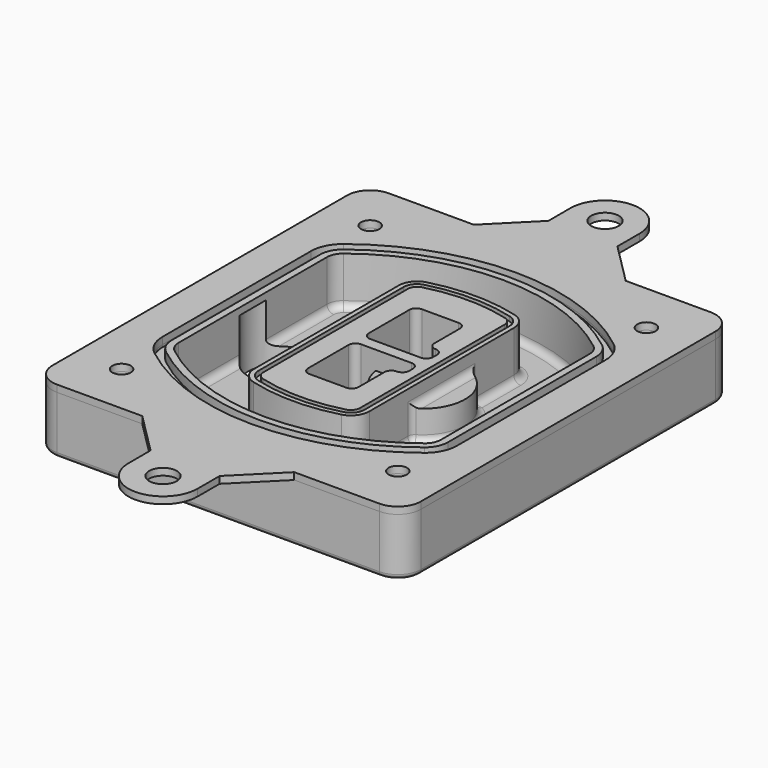
from build123d import *

# Parameters (mm, degrees)
F0_R      = 4
F1_DEPTH  = 25
F2_DEPTH  = 3
F3_DEPTH  = 1
F4_DEPTH  = 18
F6_DEPTH  = 21
F7_DEPTH  = 2
F9_DEPTH  = 20
F10_DEPTH = 16
F11_DEPTH = 25
F8_R      = 6
F8_R_2    = 4
F12_DEPTH = 6
F14_DEPTH = 9
F15_R     = 3
F16_R     = 2
F17_R     = 6
F17_R_2   = 4
F18_DEPTH = 3


with BuildPart() as f1:
    # F0 (on Top) → F1 (new body)
    with BuildSketch(Plane.XY):
        with BuildLine():
            ThreePointArc((-80, -80), (-77.0710678119, -87.0710678119), (-70, -90))
            Line((-70, -90), (70, -90))
            ThreePointArc((70, -90), (77.0710678119, -87.0710678119), (80, -80))
            Line((80, -80), (80, 80))
            ThreePointArc((80, 80), (77.0710678119, 87.0710678119), (70, 90))
            Line((70, 90), (-70, 90))
            ThreePointArc((-70, 90), (-77.0710678119, 87.0710678119), (-80, 80))
            Line((-80, 80), (-80, -80))
        make_face()
        with Locations((-60, -67.5)):
            Circle(F0_R, mode=Mode.SUBTRACT)
        with Locations((60, -67.5)):
            Circle(F0_R, mode=Mode.SUBTRACT)
        with Locations((-60, 67.5)):
            Circle(F0_R, mode=Mode.SUBTRACT)
        with BuildLine():
            ThreePointArc((-64, 40.2934422872), (-62.5820384798, 46.4328484224), (-58.6153846154, 51.3286200352))
            ThreePointArc((-58.6153846154, 51.3286200352), (0, 71.5), (58.6153846154, 51.3286200352))
            ThreePointArc((58.6153846154, 51.3286200352), (62.5820384798, 46.4328484224), (64, 40.2934422872))
            Line((64, 40.2934422872), (64, -40.2934422872))
            ThreePointArc((64, -40.2934422872), (62.5820384798, -46.4328484224), (58.6153846154, -51.3286200352))
            ThreePointArc((58.6153846154, -51.3286200352), (0, -71.5), (-58.6153846154, -51.3286200352))
            ThreePointArc((-58.6153846154, -51.3286200352), (-62.5820384798, -46.4328484224), (-64, -40.2934422872))
            Line((-64, -40.2934422872), (-64, 40.2934422872))
        make_face(mode=Mode.SUBTRACT)
        with Locations((60, 67.5)):
            Circle(F0_R, mode=Mode.SUBTRACT)
        with BuildLine():
            ThreePointArc((58.6153846154, 51.3286200352), (0, 71.5), (-58.6153846154, 51.3286200352))
            ThreePointArc((-58.6153846154, 51.3286200352), (-62.5820384798, 46.4328484224), (-64, 40.2934422872))
            Line((-64, 40.2934422872), (-64, -40.2934422872))
            ThreePointArc((-64, -40.2934422872), (-62.5820384798, -46.4328484224), (-58.6153846154, -51.3286200352))
            ThreePointArc((-58.6153846154, -51.3286200352), (0, -71.5), (58.6153846154, -51.3286200352))
            ThreePointArc((58.6153846154, -51.3286200352), (62.5820384798, -46.4328484224), (64, -40.2934422872))
            Line((64, -40.2934422872), (64, 40.2934422872))
            ThreePointArc((64, 40.2934422872), (62.5820384798, 46.4328484224), (58.6153846154, 51.3286200352))
        make_face()
        with BuildLine():
            Line((-60, -40.2934422872), (-60, 40.2934422872))
            ThreePointArc((-60, 40.2934422872), (-58.9871703427, 44.6787323838), (-56.1538461538, 48.1757121072))
            ThreePointArc((-56.1538461538, 48.1757121072), (0, 67.5), (56.1538461538, 48.1757121072))
            ThreePointArc((56.1538461538, 48.1757121072), (58.9871703427, 44.6787323838), (60, 40.2934422872))
            Line((60, 40.2934422872), (60, -40.2934422872))
            ThreePointArc((60, -40.2934422872), (58.9871703427, -44.6787323838), (56.1538461538, -48.1757121072))
            ThreePointArc((56.1538461538, -48.1757121072), (0, -67.5), (-56.1538461538, -48.1757121072))
            ThreePointArc((-56.1538461538, -48.1757121072), (-58.9871703427, -44.6787323838), (-60, -40.2934422872))
        make_face(mode=Mode.SUBTRACT)
        with BuildLine():
            ThreePointArc((-56.1538461538, 48.1757121072), (-58.9871703427, 44.6787323838), (-60, 40.2934422872))
            Line((-60, 40.2934422872), (-60, -40.2934422872))
            ThreePointArc((-60, -40.2934422872), (-58.9871703427, -44.6787323838), (-56.1538461538, -48.1757121072))
            ThreePointArc((-56.1538461538, -48.1757121072), (0, -67.5), (56.1538461538, -48.1757121072))
            ThreePointArc((56.1538461538, -48.1757121072), (58.9871703427, -44.6787323838), (60, -40.2934422872))
            Line((60, -40.2934422872), (60, 40.2934422872))
            ThreePointArc((60, 40.2934422872), (58.9871703427, 44.6787323838), (56.1538461538, 48.1757121072))
            ThreePointArc((56.1538461538, 48.1757121072), (0, 67.5), (-56.1538461538, 48.1757121072))
        make_face()
        with BuildLine():
            ThreePointArc((54.3076923077, 45.8110311612), (56.2910192399, 43.3631453548), (57, 40.2934422872))
            Line((57, 40.2934422872), (57, -40.2934422872))
            ThreePointArc((57, -40.2934422872), (56.2910192399, -43.3631453548), (54.3076923077, -45.8110311612))
            ThreePointArc((54.3076923077, -45.8110311612), (0, -64.5), (-54.3076923077, -45.8110311612))
            ThreePointArc((-54.3076923077, -45.8110311612), (-56.2910192399, -43.3631453548), (-57, -40.2934422872))
            Line((-57, -40.2934422872), (-57, 40.2934422872))
            ThreePointArc((-57, 40.2934422872), (-56.2910192399, 43.3631453548), (-54.3076923077, 45.8110311612))
            ThreePointArc((-54.3076923077, 45.8110311612), (0, 64.5), (54.3076923077, 45.8110311612))
        make_face(mode=Mode.SUBTRACT)
        with BuildLine():
            Line((57, -40.2934422872), (57, 40.2934422872))
            ThreePointArc((57, 40.2934422872), (56.2910192399, 43.3631453548), (54.3076923077, 45.8110311612))
            ThreePointArc((54.3076923077, 45.8110311612), (0, 64.5), (-54.3076923077, 45.8110311612))
            ThreePointArc((-54.3076923077, 45.8110311612), (-56.2910192399, 43.3631453548), (-57, 40.2934422872))
            Line((-57, 40.2934422872), (-57, -40.2934422872))
            ThreePointArc((-57, -40.2934422872), (-56.2910192399, -43.3631453548), (-54.3076923077, -45.8110311612))
            ThreePointArc((-54.3076923077, -45.8110311612), (0, -64.5), (54.3076923077, -45.8110311612))
            ThreePointArc((54.3076923077, -45.8110311612), (56.2910192399, -43.3631453548), (57, -40.2934422872))
        make_face()
    extrude(amount=-F1_DEPTH)

    # F0 (on Top) → F2 (join)
    with BuildSketch(Plane.XY):
        with BuildLine():
            ThreePointArc((-56.1538461538, 48.1757121072), (-58.9871703427, 44.6787323838), (-60, 40.2934422872))
            Line((-60, 40.2934422872), (-60, -40.2934422872))
            ThreePointArc((-60, -40.2934422872), (-58.9871703427, -44.6787323838), (-56.1538461538, -48.1757121072))
            ThreePointArc((-56.1538461538, -48.1757121072), (0, -67.5), (56.1538461538, -48.1757121072))
            ThreePointArc((56.1538461538, -48.1757121072), (58.9871703427, -44.6787323838), (60, -40.2934422872))
            Line((60, -40.2934422872), (60, 40.2934422872))
            ThreePointArc((60, 40.2934422872), (58.9871703427, 44.6787323838), (56.1538461538, 48.1757121072))
            ThreePointArc((56.1538461538, 48.1757121072), (0, 67.5), (-56.1538461538, 48.1757121072))
        make_face()
        with BuildLine():
            ThreePointArc((54.3076923077, 45.8110311612), (56.2910192399, 43.3631453548), (57, 40.2934422872))
            Line((57, 40.2934422872), (57, -40.2934422872))
            ThreePointArc((57, -40.2934422872), (56.2910192399, -43.3631453548), (54.3076923077, -45.8110311612))
            ThreePointArc((54.3076923077, -45.8110311612), (0, -64.5), (-54.3076923077, -45.8110311612))
            ThreePointArc((-54.3076923077, -45.8110311612), (-56.2910192399, -43.3631453548), (-57, -40.2934422872))
            Line((-57, -40.2934422872), (-57, 40.2934422872))
            ThreePointArc((-57, 40.2934422872), (-56.2910192399, 43.3631453548), (-54.3076923077, 45.8110311612))
            ThreePointArc((-54.3076923077, 45.8110311612), (0, 64.5), (54.3076923077, 45.8110311612))
        make_face(mode=Mode.SUBTRACT)
    extrude(amount=F2_DEPTH)

    # F0 (on Top) → F3 (cut)
    with BuildSketch(Plane.XY):
        with BuildLine():
            ThreePointArc((58.6153846154, 51.3286200352), (0, 71.5), (-58.6153846154, 51.3286200352))
            ThreePointArc((-58.6153846154, 51.3286200352), (-62.5820384798, 46.4328484224), (-64, 40.2934422872))
            Line((-64, 40.2934422872), (-64, -40.2934422872))
            ThreePointArc((-64, -40.2934422872), (-62.5820384798, -46.4328484224), (-58.6153846154, -51.3286200352))
            ThreePointArc((-58.6153846154, -51.3286200352), (0, -71.5), (58.6153846154, -51.3286200352))
            ThreePointArc((58.6153846154, -51.3286200352), (62.5820384798, -46.4328484224), (64, -40.2934422872))
            Line((64, -40.2934422872), (64, 40.2934422872))
            ThreePointArc((64, 40.2934422872), (62.5820384798, 46.4328484224), (58.6153846154, 51.3286200352))
        make_face()
        with BuildLine():
            Line((-60, -40.2934422872), (-60, 40.2934422872))
            ThreePointArc((-60, 40.2934422872), (-58.9871703427, 44.6787323838), (-56.1538461538, 48.1757121072))
            ThreePointArc((-56.1538461538, 48.1757121072), (0, 67.5), (56.1538461538, 48.1757121072))
            ThreePointArc((56.1538461538, 48.1757121072), (58.9871703427, 44.6787323838), (60, 40.2934422872))
            Line((60, 40.2934422872), (60, -40.2934422872))
            ThreePointArc((60, -40.2934422872), (58.9871703427, -44.6787323838), (56.1538461538, -48.1757121072))
            ThreePointArc((56.1538461538, -48.1757121072), (0, -67.5), (-56.1538461538, -48.1757121072))
            ThreePointArc((-56.1538461538, -48.1757121072), (-58.9871703427, -44.6787323838), (-60, -40.2934422872))
        make_face(mode=Mode.SUBTRACT)
    extrude(amount=-F3_DEPTH, mode=Mode.SUBTRACT)

    # F0 (on Top) → F4 (cut)
    with BuildSketch(Plane.XY):
        with BuildLine():
            Line((57, -40.2934422872), (57, 40.2934422872))
            ThreePointArc((57, 40.2934422872), (56.2910192399, 43.3631453548), (54.3076923077, 45.8110311612))
            ThreePointArc((54.3076923077, 45.8110311612), (0, 64.5), (-54.3076923077, 45.8110311612))
            ThreePointArc((-54.3076923077, 45.8110311612), (-56.2910192399, 43.3631453548), (-57, 40.2934422872))
            Line((-57, 40.2934422872), (-57, -40.2934422872))
            ThreePointArc((-57, -40.2934422872), (-56.2910192399, -43.3631453548), (-54.3076923077, -45.8110311612))
            ThreePointArc((-54.3076923077, -45.8110311612), (0, -64.5), (54.3076923077, -45.8110311612))
            ThreePointArc((54.3076923077, -45.8110311612), (56.2910192399, -43.3631453548), (57, -40.2934422872))
        make_face()
    extrude(amount=-F4_DEPTH, mode=Mode.SUBTRACT)

    # F5 (on face) → F6 (join, through all)
    with BuildSketch(Plane.XY.offset(3)):
        with BuildLine():
            ThreePointArc((-25, -39.2465276821), (-23.3511545998, -44.1109737193), (-19.0842911877, -46.9702398883))
            ThreePointArc((-19.0842911877, -46.9702398883), (0, -49.5), (19.0842911877, -46.9702398883))
            ThreePointArc((19.0842911877, -46.9702398883), (23.3511545998, -44.1109737193), (25, -39.2465276821))
            Line((25, -39.2465276821), (25, 39.2465276821))
            ThreePointArc((25, 39.2465276821), (23.3511545998, 44.1109737193), (19.0842911877, 46.9702398883))
            ThreePointArc((19.0842911877, 46.9702398883), (0, 49.5), (-19.0842911877, 46.9702398883))
            ThreePointArc((-19.0842911877, 46.9702398883), (-23.3511545998, 44.1109737193), (-25, 39.2465276821))
            Line((-25, 39.2465276821), (-25, -39.2465276821))
        make_face()
        with BuildLine():
            ThreePointArc((18.5632183908, 45.0393118368), (21.7633659499, 42.89486221), (23, 39.2465276821))
            Line((23, 39.2465276821), (23, -39.2465276821))
            ThreePointArc((23, -39.2465276821), (21.7633659499, -42.89486221), (18.5632183908, -45.0393118368))
            ThreePointArc((18.5632183908, -45.0393118368), (0, -47.5), (-18.5632183908, -45.0393118368))
            ThreePointArc((-18.5632183908, -45.0393118368), (-21.7633659499, -42.89486221), (-23, -39.2465276821))
            Line((-23, -39.2465276821), (-23, 39.2465276821))
            ThreePointArc((-23, 39.2465276821), (-21.7633659499, 42.89486221), (-18.5632183908, 45.0393118368))
            ThreePointArc((-18.5632183908, 45.0393118368), (0, 47.5), (18.5632183908, 45.0393118368))
        make_face(mode=Mode.SUBTRACT)
        with BuildLine():
            Line((23, -39.2465276821), (23, 39.2465276821))
            ThreePointArc((23, 39.2465276821), (21.7633659499, 42.89486221), (18.5632183908, 45.0393118368))
            ThreePointArc((18.5632183908, 45.0393118368), (0, 47.5), (-18.5632183908, 45.0393118368))
            ThreePointArc((-18.5632183908, 45.0393118368), (-21.7633659499, 42.89486221), (-23, 39.2465276821))
            Line((-23, 39.2465276821), (-23, -39.2465276821))
            ThreePointArc((-23, -39.2465276821), (-21.7633659499, -42.89486221), (-18.5632183908, -45.0393118368))
            ThreePointArc((-18.5632183908, -45.0393118368), (0, -47.5), (18.5632183908, -45.0393118368))
            ThreePointArc((18.5632183908, -45.0393118368), (21.7633659499, -42.89486221), (23, -39.2465276821))
        make_face()
        with BuildLine():
            ThreePointArc((18.0421455939, 43.1083837852), (20.1755772999, 41.6787507007), (21, 39.2465276821))
            Line((21, 39.2465276821), (21, -39.2465276821))
            ThreePointArc((21, -39.2465276821), (20.1755772999, -41.6787507007), (18.0421455939, -43.1083837852))
            ThreePointArc((18.0421455939, -43.1083837852), (0, -45.5), (-18.0421455939, -43.1083837852))
            ThreePointArc((-18.0421455939, -43.1083837852), (-20.1755772999, -41.6787507007), (-21, -39.2465276821))
            Line((-21, -39.2465276821), (-21, 39.2465276821))
            ThreePointArc((-21, 39.2465276821), (-20.1755772999, 41.6787507007), (-18.0421455939, 43.1083837852))
            ThreePointArc((-18.0421455939, 43.1083837852), (0, 45.5), (18.0421455939, 43.1083837852))
        make_face(mode=Mode.SUBTRACT)
        with BuildLine():
            Line((21, -39.2465276821), (21, 39.2465276821))
            ThreePointArc((21, 39.2465276821), (20.1755772999, 41.6787507007), (18.0421455939, 43.1083837852))
            ThreePointArc((18.0421455939, 43.1083837852), (0, 45.5), (-18.0421455939, 43.1083837852))
            ThreePointArc((-18.0421455939, 43.1083837852), (-20.1755772999, 41.6787507007), (-21, 39.2465276821))
            Line((-21, 39.2465276821), (-21, -39.2465276821))
            ThreePointArc((-21, -39.2465276821), (-20.1755772999, -41.6787507007), (-18.0421455939, -43.1083837852))
            ThreePointArc((-18.0421455939, -43.1083837852), (0, -45.5), (18.0421455939, -43.1083837852))
            ThreePointArc((18.0421455939, -43.1083837852), (20.1755772999, -41.6787507007), (21, -39.2465276821))
        make_face()
        with BuildLine():
            Line((-8, -2.5), (14, -2.5))
            ThreePointArc((14, -2.5), (16.1213203436, -3.3786796564), (17, -5.5))
            Line((17, -5.5), (17, -7.5))
            ThreePointArc((17, -7.5), (16.1213203436, -9.6213203436), (14, -10.5))
            ThreePointArc((14, -10.5), (11.8786796564, -11.3786796564), (11, -13.5))
            Line((11, -13.5), (11, -27.5))
            ThreePointArc((11, -27.5), (10.1213203436, -29.6213203436), (8, -30.5))
            Line((8, -30.5), (-8, -30.5))
            ThreePointArc((-8, -30.5), (-10.1213203436, -29.6213203436), (-11, -27.5))
            Line((-11, -27.5), (-11, -5.5))
            ThreePointArc((-11, -5.5), (-10.1213203436, -3.3786796564), (-8, -2.5))
        make_face(mode=Mode.SUBTRACT)
        with BuildLine():
            ThreePointArc((-8, 2.5), (-10.1213203436, 3.3786796564), (-11, 5.5))
            Line((-11, 5.5), (-11, 27.5))
            ThreePointArc((-11, 27.5), (-10.1213203436, 29.6213203436), (-8, 30.5))
            Line((-8, 30.5), (8, 30.5))
            ThreePointArc((8, 30.5), (10.1213203436, 29.6213203436), (11, 27.5))
            Line((11, 27.5), (11, 13.5))
            ThreePointArc((11, 13.5), (11.8786796564, 11.3786796564), (14, 10.5))
            ThreePointArc((14, 10.5), (16.1213203436, 9.6213203436), (17, 7.5))
            Line((17, 7.5), (17, 5.5))
            ThreePointArc((17, 5.5), (16.1213203436, 3.3786796564), (14, 2.5))
            Line((14, 2.5), (-8, 2.5))
        make_face(mode=Mode.SUBTRACT)
    extrude(amount=-F6_DEPTH)

    # F5 (on face) → F7 (cut)
    with BuildSketch(Plane.XY.offset(3)):
        with BuildLine():
            Line((23, -39.2465276821), (23, 39.2465276821))
            ThreePointArc((23, 39.2465276821), (21.7633659499, 42.89486221), (18.5632183908, 45.0393118368))
            ThreePointArc((18.5632183908, 45.0393118368), (0, 47.5), (-18.5632183908, 45.0393118368))
            ThreePointArc((-18.5632183908, 45.0393118368), (-21.7633659499, 42.89486221), (-23, 39.2465276821))
            Line((-23, 39.2465276821), (-23, -39.2465276821))
            ThreePointArc((-23, -39.2465276821), (-21.7633659499, -42.89486221), (-18.5632183908, -45.0393118368))
            ThreePointArc((-18.5632183908, -45.0393118368), (0, -47.5), (18.5632183908, -45.0393118368))
            ThreePointArc((18.5632183908, -45.0393118368), (21.7633659499, -42.89486221), (23, -39.2465276821))
        make_face()
        with BuildLine():
            ThreePointArc((18.0421455939, 43.1083837852), (20.1755772999, 41.6787507007), (21, 39.2465276821))
            Line((21, 39.2465276821), (21, -39.2465276821))
            ThreePointArc((21, -39.2465276821), (20.1755772999, -41.6787507007), (18.0421455939, -43.1083837852))
            ThreePointArc((18.0421455939, -43.1083837852), (0, -45.5), (-18.0421455939, -43.1083837852))
            ThreePointArc((-18.0421455939, -43.1083837852), (-20.1755772999, -41.6787507007), (-21, -39.2465276821))
            Line((-21, -39.2465276821), (-21, 39.2465276821))
            ThreePointArc((-21, 39.2465276821), (-20.1755772999, 41.6787507007), (-18.0421455939, 43.1083837852))
            ThreePointArc((-18.0421455939, 43.1083837852), (0, 45.5), (18.0421455939, 43.1083837852))
        make_face(mode=Mode.SUBTRACT)
    extrude(amount=-F7_DEPTH, mode=Mode.SUBTRACT)

    # F8 (on face) → F9 (join)
    with BuildSketch(Plane(origin=(0, 0, -25), x_dir=(1, 0, 0), z_dir=(0, 0, -1))):
        with BuildLine():
            ThreePointArc((3.28842436, 0), (16.7567035675, 13.4682792075), (30.224982775, 0))
            Line((30.224982775, 0), (35.224982775, 0))
            ThreePointArc((35.224982775, 0), (16.7567035675, 18.4682792075), (-1.71157564, 0))
            Line((-1.71157564, 0), (3.28842436, 0))
        make_face()
        with BuildLine():
            Line((3.28842436, 0), (30.224982775, 0))
            ThreePointArc((30.224982775, 0), (16.7567035675, 13.4682792075), (3.28842436, 0))
        make_face()
        with BuildLine():
            ThreePointArc((3.28842436, 0), (16.7567035675, -13.4682792075), (30.224982775, 0))
            Line((30.224982775, 0), (3.28842436, 0))
        make_face()
        with BuildLine():
            Line((35.224982775, 0), (30.224982775, 0))
            ThreePointArc((30.224982775, 0), (16.7567035675, -13.4682792075), (3.28842436, 0))
            Line((3.28842436, 0), (-1.71157564, 0))
            ThreePointArc((-1.71157564, 0), (16.7567035675, -18.4682792075), (35.224982775, 0))
        make_face()
    extrude(amount=-F9_DEPTH)

    # F8 (on face) → F10 (cut)
    with BuildSketch(Plane(origin=(0, 0, -25), x_dir=(1, 0, 0), z_dir=(0, 0, -1))):
        with BuildLine():
            Line((3.28842436, 0), (30.224982775, 0))
            ThreePointArc((30.224982775, 0), (16.7567035675, 13.4682792075), (3.28842436, 0))
        make_face()
        with BuildLine():
            ThreePointArc((3.28842436, 0), (16.7567035675, -13.4682792075), (30.224982775, 0))
            Line((30.224982775, 0), (3.28842436, 0))
        make_face()
    extrude(amount=-F10_DEPTH, mode=Mode.SUBTRACT)

    # F8 (on face) → F11 (cut)
    with BuildSketch(Plane(origin=(0, 0, -25), x_dir=(1, 0, 0), z_dir=(0, 0, -1))):
        with BuildLine():
            Line((-59.0318229325, 0), (-32.0952645175, 0))
            ThreePointArc((-32.0952645175, 0), (-45.563543725, 13.4682792075), (-59.0318229325, 0))
        make_face()
        with BuildLine():
            ThreePointArc((-59.0318229325, 0), (-45.563543725, -13.4682792075), (-32.0952645175, 0))
            Line((-32.0952645175, 0), (-59.0318229325, 0))
        make_face()
    extrude(amount=-F11_DEPTH, mode=Mode.SUBTRACT)

    # F8 (on face) → F12 (cut)
    with BuildSketch(Plane(origin=(0, 0, -25), x_dir=(1, 0, 0), z_dir=(0, 0, -1))):
        with Locations((60, -67.5)):
            Circle(F8_R)
        with Locations((60, -67.5)):
            Circle(F8_R_2, mode=Mode.SUBTRACT)
        with Locations((60, -67.5)):
            Circle(F8_R)
        with Locations((60, -67.5)):
            Circle(F8_R_2, mode=Mode.SUBTRACT)
        with Locations((-60, -67.5)):
            Circle(F8_R)
        with Locations((-60, -67.5)):
            Circle(F8_R_2, mode=Mode.SUBTRACT)
        with Locations((-60, -67.5)):
            Circle(F8_R)
        with Locations((-60, -67.5)):
            Circle(F8_R_2, mode=Mode.SUBTRACT)
        with Locations((-60, 67.5)):
            Circle(F8_R)
        with Locations((-60, 67.5)):
            Circle(F8_R_2, mode=Mode.SUBTRACT)
        with Locations((-60, 67.5)):
            Circle(F8_R)
        with Locations((-60, 67.5)):
            Circle(F8_R_2, mode=Mode.SUBTRACT)
        with Locations((60, 67.5)):
            Circle(F8_R)
        with Locations((60, 67.5)):
            Circle(F8_R_2, mode=Mode.SUBTRACT)
        with Locations((60, 67.5)):
            Circle(F8_R)
        with Locations((60, 67.5)):
            Circle(F8_R_2, mode=Mode.SUBTRACT)
    extrude(amount=-F12_DEPTH, mode=Mode.SUBTRACT)

    # F13 (on face) → F14 (cut, through all)
    with BuildSketch(Plane(origin=(0, 0, -9), x_dir=(1, 0, 0), z_dir=(0, 0, -1))):
        with BuildLine():
            Line((11, 13.5), (11, 17.5481537753))
            ThreePointArc((11, 17.5481537753), (2.5696536419, 11.8239143813), (-1.5415842455, 2.5))
            Line((-1.5415842455, 2.5), (3.5224848595, 2.5))
            ThreePointArc((3.5224848595, 2.5), (6.1857188154, 8.3455872281), (11.2536447004, 12.2927168648))
            ThreePointArc((11.2536447004, 12.2927168648), (11.0640958889, 12.8831798879), (11, 13.5))
        make_face()
        with BuildLine():
            ThreePointArc((11.2536447004, -12.2927168648), (6.1857188154, -8.3455872281), (3.5224848595, -2.5))
            Line((3.5224848595, -2.5), (-1.5415842455, -2.5))
            ThreePointArc((-1.5415842455, -2.5), (2.5696536419, -11.8239143813), (11, -17.5481537753))
            Line((11, -17.5481537753), (11, -13.5))
            ThreePointArc((11, -13.5), (11.0640958889, -12.8831798879), (11.2536447004, -12.2927168648))
        make_face()
        with BuildLine():
            ThreePointArc((11.2536447004, 12.2927168648), (6.1857188154, 8.3455872281), (3.5224848595, 2.5))
            Line((3.5224848595, 2.5), (14, 2.5))
            ThreePointArc((14, 2.5), (16.1213203436, 3.3786796564), (17, 5.5))
            Line((17, 5.5), (17, 7.5))
            ThreePointArc((17, 7.5), (16.1213203436, 9.6213203436), (14, 10.5))
            ThreePointArc((14, 10.5), (12.3601599782, 10.9878446101), (11.2536447004, 12.2927168648))
        make_face()
        with BuildLine():
            Line((14, -2.5), (3.5224848595, -2.5))
            ThreePointArc((3.5224848595, -2.5), (6.1857188154, -8.3455872281), (11.2536447004, -12.2927168648))
            ThreePointArc((11.2536447004, -12.2927168648), (12.3601599782, -10.9878446101), (14, -10.5))
            ThreePointArc((14, -10.5), (16.1213203436, -9.6213203436), (17, -7.5))
            Line((17, -7.5), (17, -5.5))
            ThreePointArc((17, -5.5), (16.1213203436, -3.3786796564), (14, -2.5))
        make_face()
    extrude(amount=F14_DEPTH, mode=Mode.SUBTRACT)

    # F15
    f15_edges = [f1.edges().sort_by_distance(p)[0] for p in [
        (-57, -23.703476, -18),
        (-57, 23.703476, -18),
        (25, 0, -5),
        (25, 16.526506, -11.5),
        (25, -16.526506, -11.5),
        (25, -27.886517, -18),
        (35.224983, 0, -18),
    ]]
    fillet(f15_edges, radius=F15_R)

    # F16
    f16_edges = [f1.edges().sort_by_distance(p)[0] for p in [
        (0, -90, -25),
    ]]
    fillet(f16_edges, radius=F16_R)


with BuildPart() as f18:
    # F17 (on face) → F18 (new body, through all)
    with BuildSketch(Plane.XY):
        with BuildLine():
            Line((-15, 108), (-33, 90))
            Line((-33, 90), (33, 90))
            Line((33, 90), (15, 108))
            Line((15, 108), (15, 120))
            ThreePointArc((15, 120), (0, 135), (-15, 120))
            Line((-15, 120), (-15, 108))
        make_face()
        with Locations((0, 120)):
            Circle(F17_R, mode=Mode.SUBTRACT)
        with BuildLine():
            Line((-33, 90), (-70, 90))
            ThreePointArc((-70, 90), (-77.0710678119, 87.0710678119), (-80, 80))
            Line((-80, 80), (-80, -80))
            ThreePointArc((-80, -80), (-77.0710678119, -87.0710678119), (-70, -90))
            Line((-70, -90), (-33, -90))
            Line((-33, -90), (33, -90))
            Line((33, -90), (70, -90))
            ThreePointArc((70, -90), (77.0710678119, -87.0710678119), (80, -80))
            Line((80, -80), (80, 80))
            ThreePointArc((80, 80), (77.0710678119, 87.0710678119), (70, 90))
            Line((70, 90), (33, 90))
            Line((33, 90), (-33, 90))
        make_face()
        with Locations((-60, -67.5)):
            Circle(F17_R_2, mode=Mode.SUBTRACT)
        with Locations((60, -67.5)):
            Circle(F17_R_2, mode=Mode.SUBTRACT)
        with Locations((-60, 67.5)):
            Circle(F17_R_2, mode=Mode.SUBTRACT)
        with BuildLine():
            ThreePointArc((-58.6153846154, 51.3286200352), (0, 71.5), (58.6153846154, 51.3286200352))
            ThreePointArc((58.6153846154, 51.3286200352), (62.5820384798, 46.4328484224), (64, 40.2934422872))
            Line((64, 40.2934422872), (64, -40.2934422872))
            ThreePointArc((64, -40.2934422872), (62.5820384798, -46.4328484224), (58.6153846154, -51.3286200352))
            ThreePointArc((58.6153846154, -51.3286200352), (0, -71.5), (-58.6153846154, -51.3286200352))
            ThreePointArc((-58.6153846154, -51.3286200352), (-62.5820384798, -46.4328484224), (-64, -40.2934422872))
            Line((-64, -40.2934422872), (-64, 40.2934422872))
            ThreePointArc((-64, 40.2934422872), (-62.5820384798, 46.4328484224), (-58.6153846154, 51.3286200352))
        make_face(mode=Mode.SUBTRACT)
        with Locations((60, 67.5)):
            Circle(F17_R_2, mode=Mode.SUBTRACT)
        with BuildLine():
            Line((33, -90), (-33, -90))
            Line((-33, -90), (-15, -108))
            Line((-15, -108), (-15, -120))
            ThreePointArc((-15, -120), (0, -135), (15, -120))
            Line((15, -120), (15, -108))
            Line((15, -108), (33, -90))
        make_face()
        with Locations((0, -120)):
            Circle(F17_R, mode=Mode.SUBTRACT)
    extrude(amount=F18_DEPTH)


solid = Compound([f1.part, f18.part])
